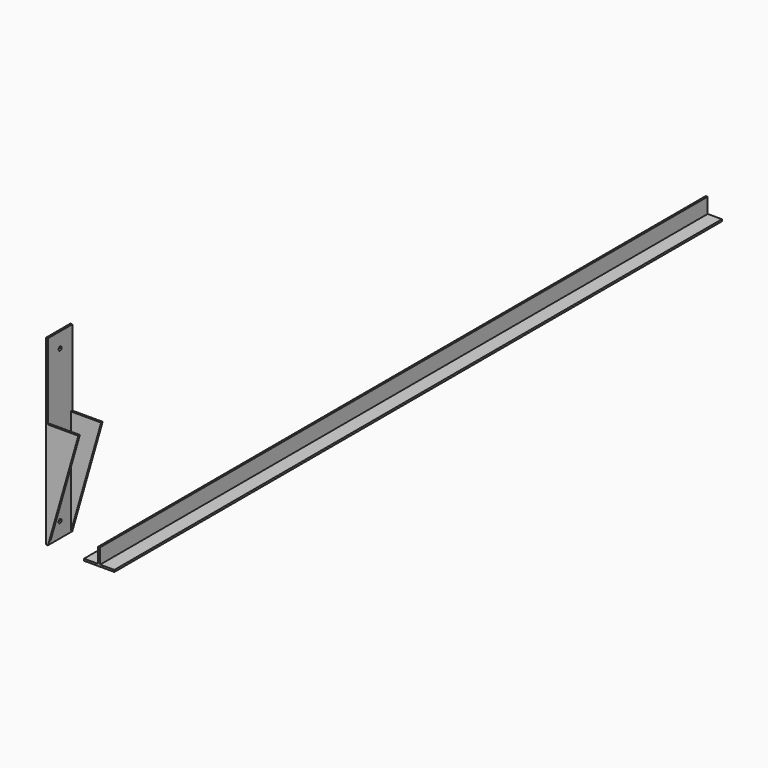
from build123d import *

# Parameters (mm, degrees)
F0_W     = 101.6
F0_H     = 609.6
F0_R     = 6.35
F1_DEPTH = 6.35
F3_DEPTH = 6.35
F5_DEPTH = 6.35
F7_DEPTH = 2540


with BuildPart() as f1:
    # F0 (on Right) → F1 (new body)
    with BuildSketch(Plane.YZ):
        with Locations((50.8, 304.8)):
            Rectangle(F0_W, F0_H)
        with Locations((50.8, 50.8)):
            Circle(F0_R, mode=Mode.SUBTRACT)
        with Locations((50.8, 304.8)):
            Circle(F0_R, mode=Mode.SUBTRACT)
        with Locations((50.8, 558.8)):
            Circle(F0_R, mode=Mode.SUBTRACT)
    extrude(amount=-F1_DEPTH)

    # F2 (on Front) → F3 (join)
    with BuildSketch(Plane.XZ):
        Polygon((0, 355.6), (0, 0), (101.6, 355.6), align=None)
    extrude(amount=-F3_DEPTH)

    # F4 (on face) → F5 (join)
    with BuildSketch(Plane(origin=(0, 101.6, 0), x_dir=(-1, 0, 0), z_dir=(0, 1, 0))):
        Polygon((-101.6, 355.6), (0, 0), (0, 355.6), align=None)
    extrude(amount=-F5_DEPTH)


with BuildPart() as f7:
    # F6 (on Front) → F7 (new body)
    with BuildSketch(Plane.XZ):
        Polygon((168.075445, 50.8), (168.075445, 0), (120.450445, 0), (120.450445, -6.35), (222.050445, -6.35), (222.050445, 0), (174.425445, 0), (174.425445, 50.8), align=None)
    extrude(amount=-F7_DEPTH)


solid = Compound([f1.part, f7.part])
